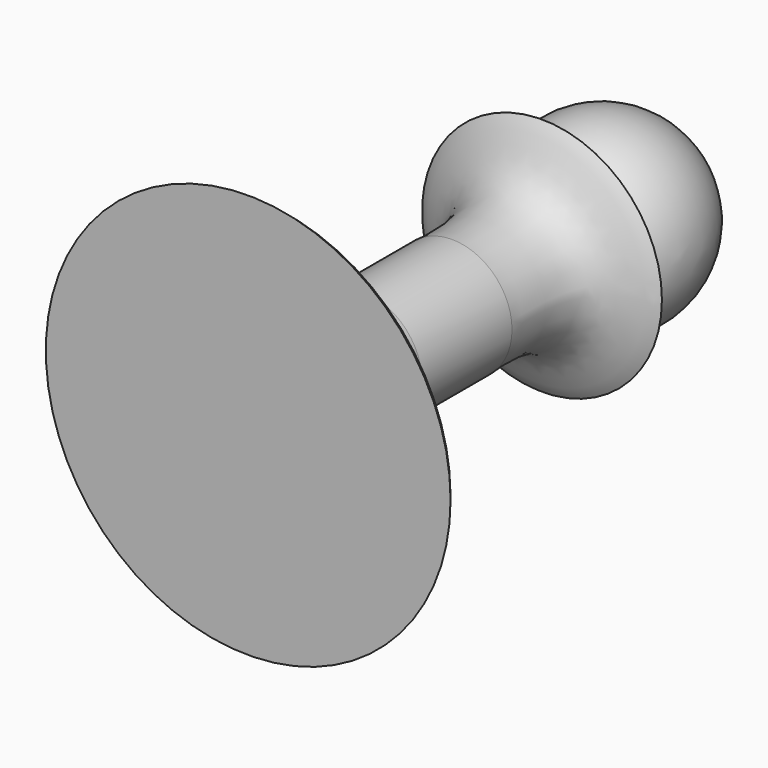
from build123d import *


with BuildPart() as f1:
    # F0 (on Top) → F1 (revolve)
    with BuildSketch(Plane.XY):
        with BuildLine():
            Line((16, 25.6433447152), (7.5, 25.6433447152))
            ThreePointArc((7.5, 25.6433447152), (11.8585412256, 39.5961917904), (0, 48.1433447152))
            Line((0, 48.1433447152), (0, 35.6433447152))
            Line((0, 35.6433447152), (0, 25.6433447152))
            Line((0, 25.6433447152), (0, 10.6433447152))
            Line((0, 10.6433447152), (0, -4.3566552848))
            Line((0, -4.3566552848), (0, -19.3566552848))
            Line((0, -19.3566552848), (0, -21.3566552848))
            Line((0, -21.3566552848), (0, -23.3566552848))
            Line((0, -23.3566552848), (27, -23.3566552848))
            add(Edge.make_bspline(
                [(24, -21.3566552848), (24.6196215054, -21.5204134228), (25.7283122835, -21.7453096783), (26.6292929815, -22.8421110074), (27, -23.3566552848)],
                knots=[0, 0, 0, 0, 0.4862771007, 1, 1, 1, 1], degree=3))
            Line((24, -21.3566552848), (20, -21.3566552848))
            Line((20, -21.3566552848), (20, -19.3566552848))
            add(Edge.make_bspline(
                [(8, -4.3566552848), (8.112197293, -6.417793237), (8.2255784728, -9.6449483768), (9.4101474188, -14.118876444), (14.6167419047, -17.2260008278), (18.1252009022, -18.9800847123), (20, -19.3566552848)],
                knots=[0, 0, 0, 0, 0.2526371034, 0.4753484864, 0.7366715827, 1, 1, 1, 1], degree=3))
            Line((8, -4.3566552848), (8, 10.6433447152))
            add(Edge.make_bspline(
                [(16, 25.6433447152), (14.40810159, 24.393974638), (9.6003716662, 23.235144815), (7.7269102311, 16.9539722799), (7.8347447757, 12.9218989334), (8, 10.6433447152)],
                knots=[0, 0, 0, 0, 0.3390111134, 0.6610735617, 1, 1, 1, 1], degree=3))
        make_face()
    revolve(axis=Axis((0, 41.8933447152, 0), (0, 1, 0)))


solid = f1.part
